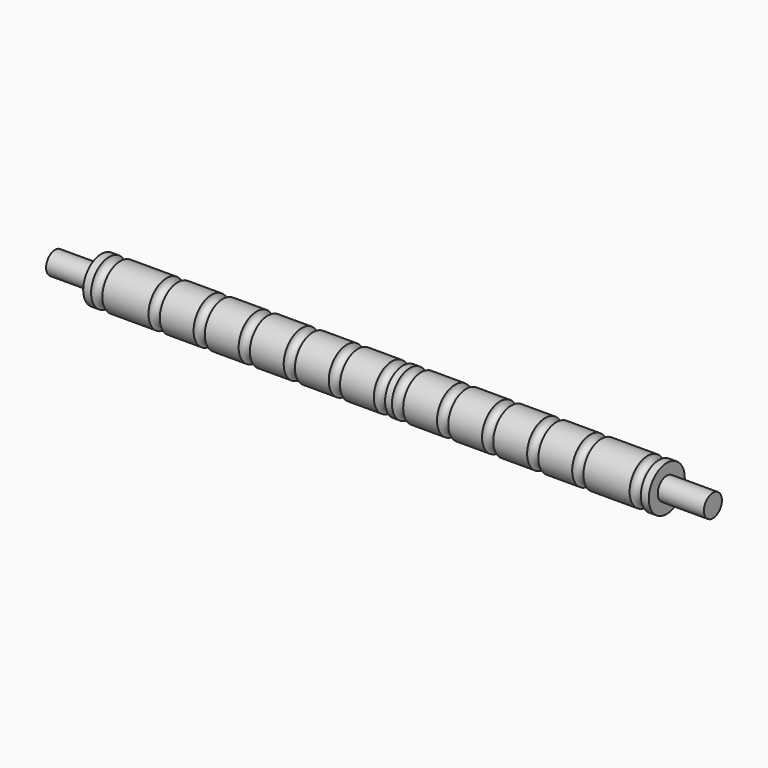
from build123d import *


with BuildPart() as f1:
    # F0 (on Front) → F1 (revolve)
    with BuildSketch(Plane.XZ):
        with BuildLine():
            Line((79.6925, 0), (79.6925, 3.175))
            Line((79.6925, 3.175), (77.47, 3.175))
            ThreePointArc((77.47, 3.175), (75.8825, 1.5875), (74.295, 3.175))
            Line((74.295, 3.175), (61.2902, 3.175))
            ThreePointArc((61.2902, 3.175), (59.7027, 1.5875), (58.1152, 3.175))
            Line((58.1152, 3.175), (48.5902, 3.175))
            ThreePointArc((48.5902, 3.175), (47.0027, 1.5875), (45.4152, 3.175))
            Line((45.4152, 3.175), (35.8902, 3.175))
            ThreePointArc((35.8902, 3.175), (34.3027, 1.5875), (32.7152, 3.175))
            Line((32.7152, 3.175), (23.1902, 3.175))
            ThreePointArc((23.1902, 3.175), (21.6027, 1.5875), (20.0152, 3.175))
            Line((20.0152, 3.175), (10.4902, 3.175))
            ThreePointArc((10.4902, 3.175), (8.9027, 1.5875), (7.3152, 3.175))
            Line((7.3152, 3.175), (5.3848, 3.175))
            ThreePointArc((5.3848, 3.175), (3.7973, 1.5875), (2.2098, 3.175))
            Line((2.2098, 3.175), (-7.3152, 3.175))
            ThreePointArc((-7.3152, 3.175), (-8.9027, 1.5875), (-10.4902, 3.175))
            Line((-10.4902, 3.175), (-20.0152, 3.175))
            ThreePointArc((-20.0152, 3.175), (-21.6027, 1.5875), (-23.1902, 3.175))
            Line((-23.1902, 3.175), (-32.7152, 3.175))
            ThreePointArc((-32.7152, 3.175), (-34.3027, 1.5875), (-35.8902, 3.175))
            Line((-35.8902, 3.175), (-45.4152, 3.175))
            ThreePointArc((-45.4152, 3.175), (-47.0027, 1.5875), (-48.5902, 3.175))
            Line((-48.5902, 3.175), (-58.1152, 3.175))
            ThreePointArc((-58.1152, 3.175), (-59.7027, 1.5875), (-61.2902, 3.175))
            Line((-61.2902, 3.175), (-74.295, 3.175))
            ThreePointArc((-74.295, 3.175), (-75.8825, 1.5875), (-77.47, 3.175))
            Line((-77.47, 3.175), (-79.6925, 3.175))
            Line((-79.6925, 3.175), (-79.6925, 0))
            Line((-79.6925, 0), (-92.6973, 0))
            Line((-92.6973, 0), (-92.6973, -3.175))
            Line((-92.6973, -3.175), (92.6973, -3.175))
            Line((92.6973, -3.175), (92.6973, 0))
            Line((92.6973, 0), (79.6925, 0))
        make_face()
    revolve(axis=Axis((0, 0, -3.175), (-1, 0, 0)))


solid = f1.part
